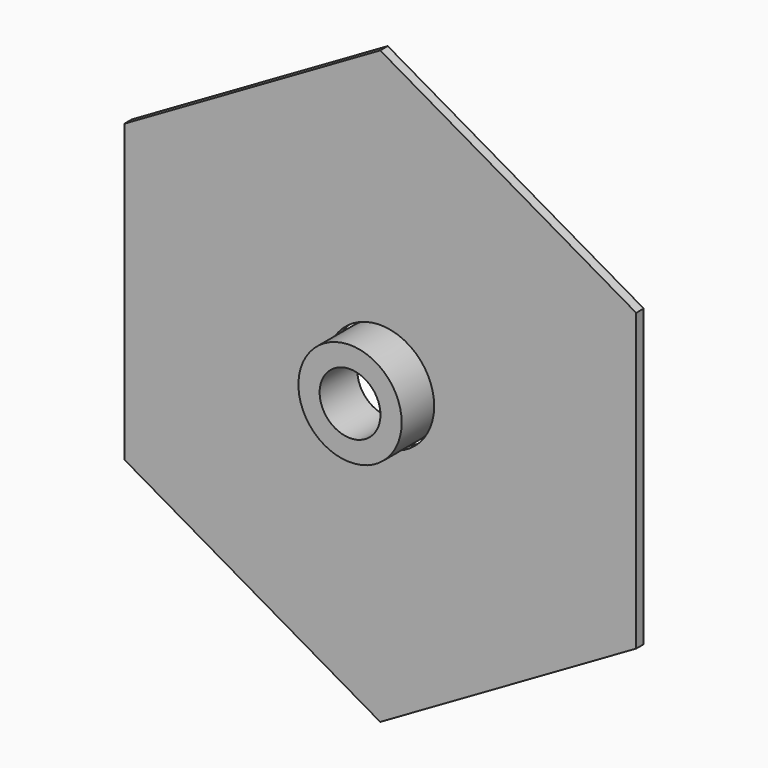
from build123d import *

# Parameters (mm, degrees)
F0_R     = 11.434559
F1_DEPTH = 2
F2_R     = 10.945727
F2_R_2   = 6.446602
F3_DEPTH = 10


with BuildPart() as f1:
    # F0 (on Front) → F1 (new body)
    with BuildSketch(Plane.XZ):
        Polygon((-54.263688, -31.329155), (0, -62.65831), (54.263688, -31.329155), (54.263688, 31.329155), (0, 62.65831), (-54.263688, 31.329155), align=None)
        Circle(F0_R, mode=Mode.SUBTRACT)
    extrude(amount=F1_DEPTH)


with BuildPart() as f3:
    # F2 (on Front) → F3 (new body)
    with BuildSketch(Plane.XZ):
        Circle(F2_R)
        Circle(F2_R_2, mode=Mode.SUBTRACT)
    extrude(amount=F3_DEPTH)


solid = Compound([f1.part, f3.part])
